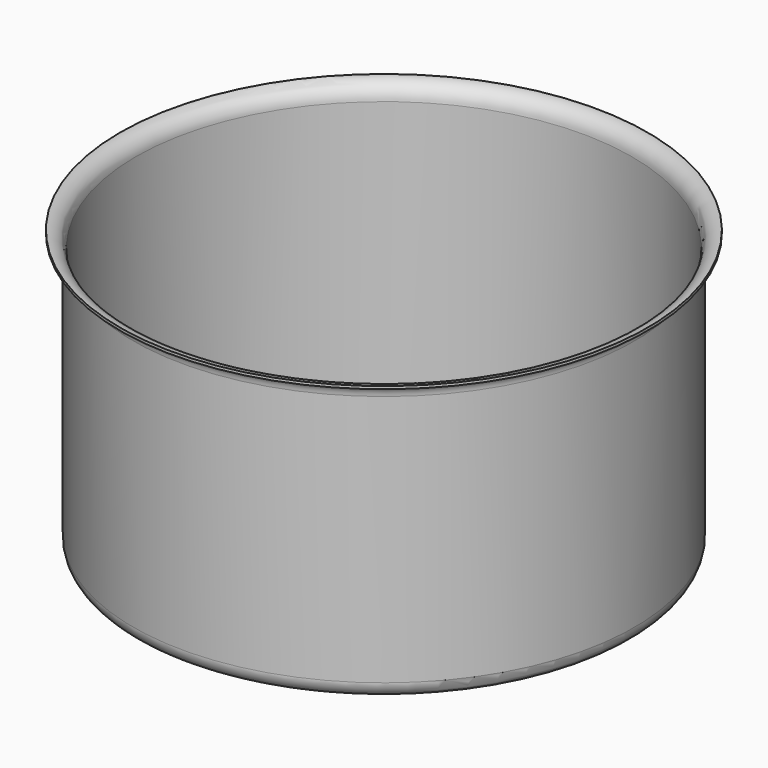
from build123d import *


with BuildPart() as f1:
    # F0 (on Front) → F1 (revolve)
    with BuildSketch(Plane.XZ):
        with BuildLine():
            Line((-86.644506, 0), (0, 0))
            Line((0, 0), (0, 0.999899))
            Line((0, 0.999899), (-86.644506, 0.999899))
            ThreePointArc((-86.644506, 0.999899), (-90.18004, 2.464366), (-91.644506, 5.999899))
            Line((-91.644506, 5.999899), (-91.644506, 99.068314))
            ThreePointArc((-91.644506, 99.068314), (-93.354975, 103.235798), (-97.5, 105))
            Line((-97.5, 105), (-97.5, 104))
            ThreePointArc((-97.5, 104), (-94.062029, 102.528745), (-92.644405, 99.068314))
            Line((-92.644405, 99.068314), (-92.644405, 5.999899))
            ThreePointArc((-92.644405, 5.999899), (-90.887075, 1.75733), (-86.644506, 0))
        make_face()
    revolve(axis=Axis((0, 0, 0.49995), (0, 0, 1)))


solid = f1.part
